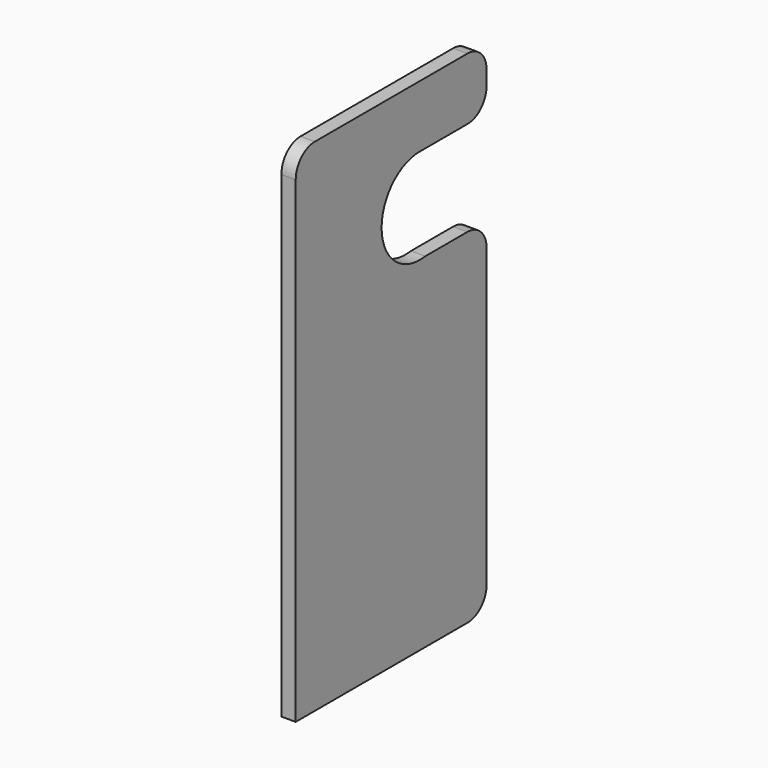
from build123d import *

# Parameters (mm, degrees)
F1_DEPTH = 3
F2_R     = 5


with BuildPart() as f1:
    # F0 (on Right) → F1 (new body)
    with BuildSketch(Plane.YZ):
        with BuildLine():
            Line((25.445118, 52.5), (-24.554882, 52.5))
            Line((-24.554882, 52.5), (-24.554882, -52.5))
            Line((-24.554882, -52.5), (25.445118, -52.5))
            Line((25.445118, -52.5), (25.445118, 19.604974))
            Line((25.445118, 19.604974), (9.390269, 19.604974))
            ThreePointArc((9.390269, 19.604974), (-2.031506, 28.816642), (8.027565, 39.49966))
            Line((8.027565, 39.49966), (25.445118, 39.49966))
            Line((25.445118, 39.49966), (25.445118, 52.5))
        make_face()
    extrude(amount=F1_DEPTH)

    # F2
    f2_edges = [f1.edges().sort_by_distance(p)[0] for p in [
        (1.5, -24.554882, 52.5),
        (1.5, 25.445118, 52.5),
        (1.5, 25.445118, 39.49966),
        (1.5, 25.445118, 19.604974),
        (1.5, 25.445118, -52.5),
    ]]
    fillet(f2_edges, radius=F2_R)


solid = f1.part
